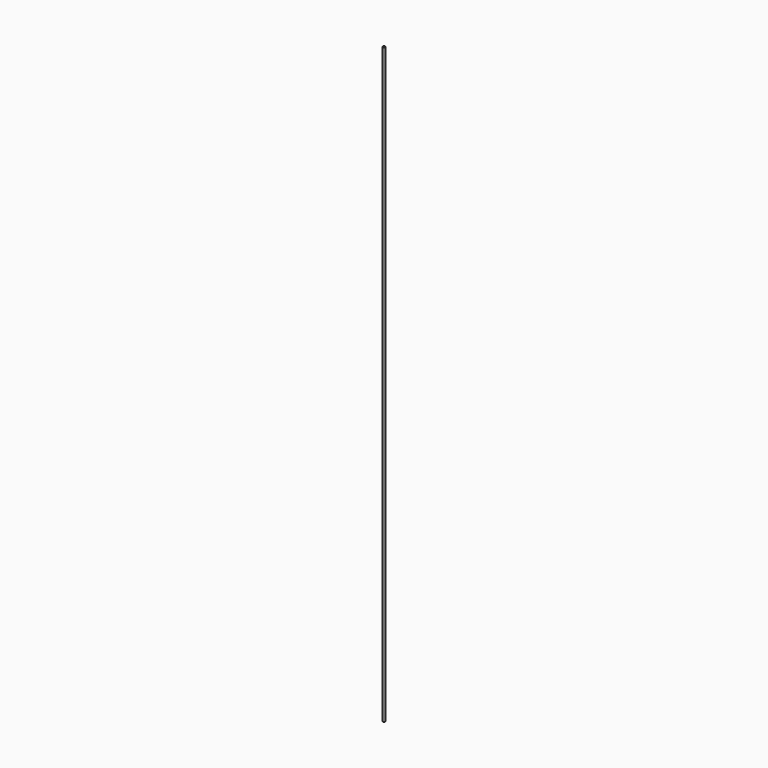
from build123d import *

# Parameters (mm, degrees)
SKETCH_R  = 0.2
PAD_DEPTH = 100


with BuildPart() as part:
    # Sketch → Pad (new body)
    with BuildSketch(Plane.XY):
        Circle(SKETCH_R)
    extrude(amount=PAD_DEPTH)


solid = part.part
